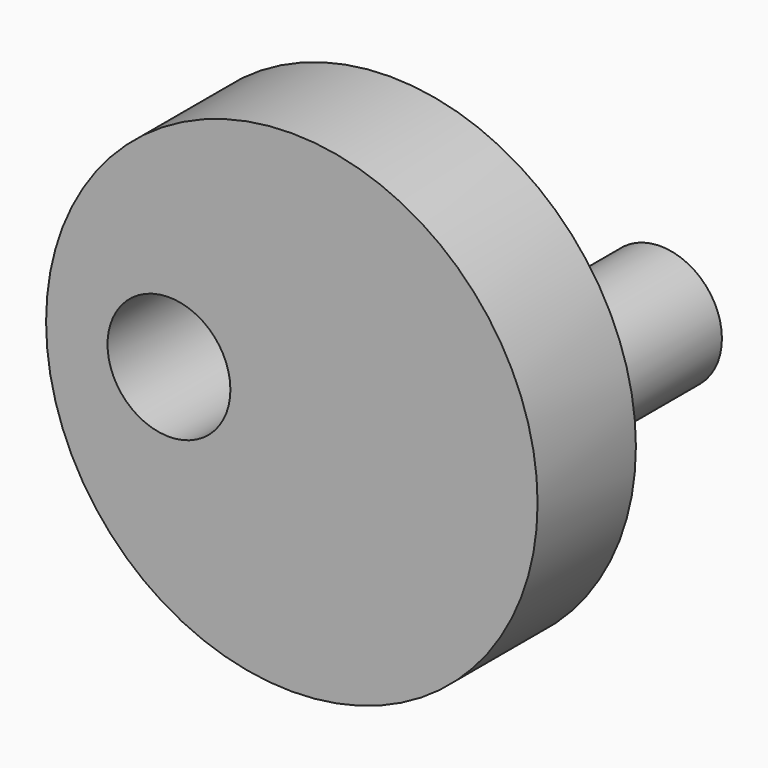
from build123d import *

# Parameters (mm, degrees)
F0_R     = 101.6
F0_R_2   = 25.4
F1_DEPTH = 50.8
F2_DEPTH = 76.2


with BuildPart() as f1:
    # F0 (on Front) → F1 (new body)
    with BuildSketch(Plane.XZ):
        Circle(F0_R)
        with Locations((-50.8, 0)):
            Circle(F0_R_2, mode=Mode.SUBTRACT)
        with Locations((50.8, 0)):
            Circle(F0_R_2, mode=Mode.SUBTRACT)
        with Locations((50.8, 0)):
            Circle(F0_R_2)
    extrude(amount=F1_DEPTH)

    # F0 (on Front) → F2 (join)
    with BuildSketch(Plane.XZ):
        with Locations((50.8, 0)):
            Circle(F0_R_2)
    extrude(amount=-F2_DEPTH)


solid = f1.part
